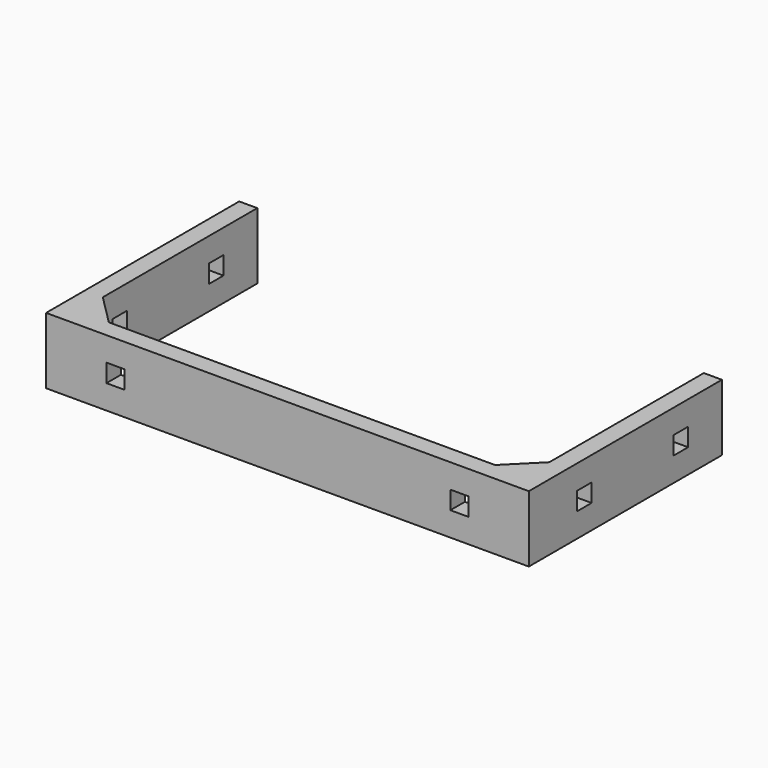
from build123d import *

# Parameters (mm, degrees)
F1_DEPTH = 11
F2_SIZE  = 5
F4_ANGLE = -90
F5_W     = 3
F5_H     = 3
F6_DEPTH = 80.001
F7_W     = 3
F7_H     = 3
F8_DEPTH = 25


with BuildPart() as f1:
    # F0 (on Front) → F1 (new body)
    with BuildSketch(Plane.XZ):
        Polygon((-40, 40), (-40, 0), (40, 0), (40, 40), (37, 40), (37, 3), (-37, 3), (-37, 40), align=None)
    extrude(amount=F1_DEPTH)

    # F2
    f2_edges = [f1.edges().sort_by_distance(p)[0] for p in [
        (-37, -5.5, 3),
        (37, -5.5, 3),
    ]]
    chamfer(f2_edges, length=F2_SIZE)


with BuildPart() as f1_1:
    # F4: moved
    add(f1.part.rotate(Axis((33.50826, 0, 0), (1, 0, 0)), F4_ANGLE))

    # F5 (on face) → F6 (cut, through all)
    with BuildSketch(Plane.YZ.offset(40)):
        with Locations((11.5, 5.5)):
            Rectangle(F5_W, F5_H)
        with Locations((31.5, 5.5)):
            Rectangle(F5_W, F5_H)
    extrude(amount=-F6_DEPTH, mode=Mode.SUBTRACT)

    # F7 (on face) → F8 (cut)
    with BuildSketch(Plane.XZ):
        with Locations((-28.5, 5.5)):
            Rectangle(F7_W, F7_H)
        with Locations((28.5, 5.5)):
            Rectangle(F7_W, F7_H)
    extrude(amount=-F8_DEPTH, mode=Mode.SUBTRACT)


solid = f1_1.part
